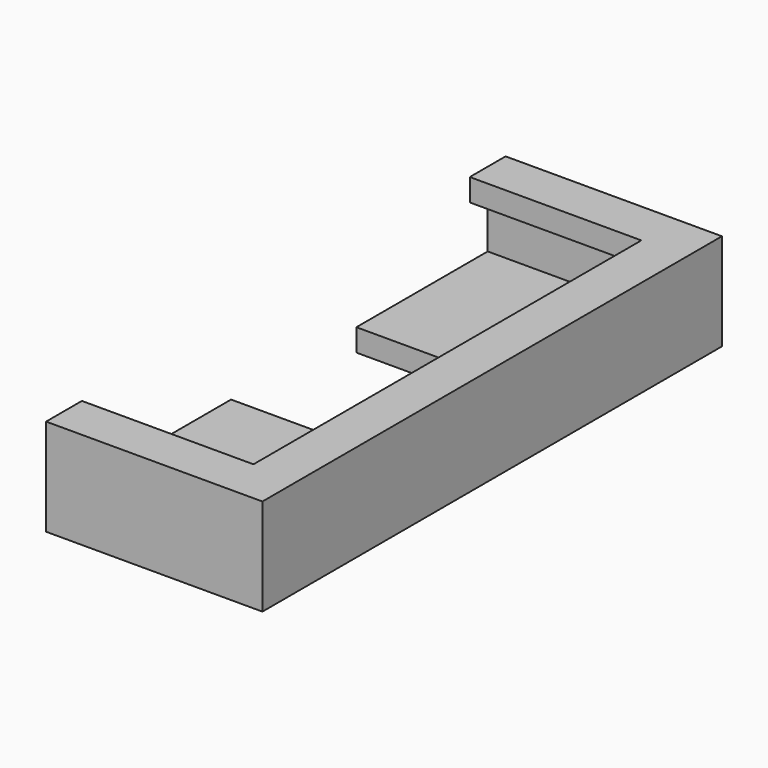
from build123d import *

# Parameters (mm, degrees)
F1_DEPTH  = 3
F3_DEPTH  = 10
F4_W      = 71
F4_H      = 3
F5_DEPTH  = 3
F6_W      = 23
F6_H      = 3
F7_DEPTH  = 3
F8_W      = 23
F8_H      = 3
F9_DEPTH  = 3
F10_W     = 7.5
F10_H     = 40
F11_DEPTH = 3.5
F13_DEPTH = 40
F14_DEPTH = 40


with BuildPart() as f1:
    # F0 (on Top) → F1 (new body)
    with BuildSketch(Plane.XY):
        Polygon((0, 31), (0, 0), (29, 0), (29, 77), (0, 77), (0, 52), (13, 52), (13, 31), align=None)
        Polygon((0, 31), (0, 0), (29, 0), (29, 77), (0, 77), (0, 52), (13, 52), (13, 31), align=None)
    extrude(amount=F1_DEPTH)

    # F2 (on face) → F3 (join)
    with BuildSketch(Plane.XY.offset(3)):
        Polygon((26, 3), (0, 3), (0, 0), (29, 0), (29, 77), (0, 77), (0, 74), (26, 74), align=None)
    extrude(amount=F3_DEPTH)

    # F4 (on face) → F5 (join)
    with BuildSketch(Plane(origin=(26, 0, 0), x_dir=(0, -1, 0), z_dir=(-1, 0, 0))):
        with Locations((-38.5, 11.5)):
            Rectangle(F4_W, F4_H)
    extrude(amount=F5_DEPTH)

    # F6 (on face) → F7 (join)
    with BuildSketch(Plane.XZ.offset(-74)):
        with Locations((11.5, 11.5)):
            Rectangle(F6_W, F6_H)
    extrude(amount=F7_DEPTH)

    # F8 (on face) → F9 (join)
    with BuildSketch(Plane(origin=(0, 3, 0), x_dir=(-1, 0, 0), z_dir=(0, 1, 0))):
        with Locations((-11.5, 11.5)):
            Rectangle(F8_W, F8_H)
    extrude(amount=F9_DEPTH)

    # F10 (on face) → F11 (join)
    with BuildSketch(Plane(origin=(0, 0, 0), x_dir=(1, 0, 0), z_dir=(0, 0, -1))):
        with Locations((20.75, -57)):
            Rectangle(F10_W, F10_H)
    extrude(amount=F11_DEPTH)

    # F12 (on face) → F13 (cut)
    with BuildSketch(Plane(origin=(0, 77, 0), x_dir=(-1, 0, 0), z_dir=(0, 1, 0))):
        Polygon((-24.5, 0), (-24.5, -3.5), (-23.5, 0), align=None)
    extrude(amount=-F13_DEPTH, mode=Mode.SUBTRACT)

    # F12 (on face) → F14 (cut)
    with BuildSketch(Plane(origin=(0, 77, 0), x_dir=(-1, 0, 0), z_dir=(0, 1, 0))):
        Polygon((-18, 0), (-17, -3.5), (-17, 0), align=None)
    extrude(amount=-F14_DEPTH, mode=Mode.SUBTRACT)


solid = f1.part
